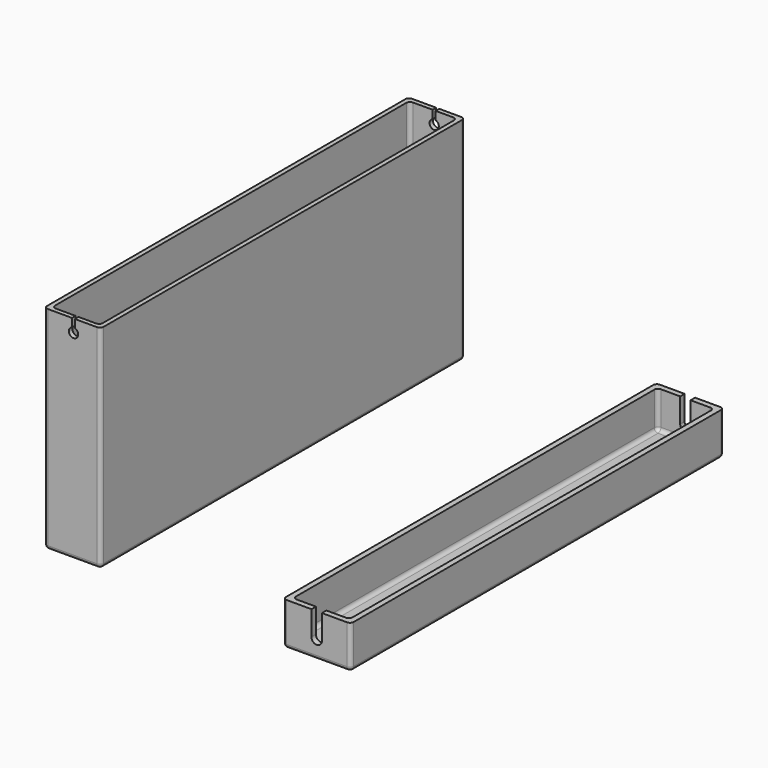
from build123d import *

# Parameters (mm, degrees)
F0_W     = 15.2
F0_H     = 122.4
F0_W_2   = 12.8
F0_H_2   = 120
F1_DEPTH = 1.5
F2_DEPTH = 57
F4_DEPTH = 122.401
F0_W_3   = 18.2
F0_H_3   = 125.4
F5_DEPTH = 1.5
F6_DEPTH = 10
F8_DEPTH = 125.401
F9_R     = 1
F9_2_R   = 1


with BuildPart() as f1:
    # F0 (on Top) → F1 (new body)
    with BuildSketch(Plane.XY):
        with Locations((-40.9856793821, 52.9964423075)):
            Rectangle(F0_W, F0_H)
        with Locations((-40.9856793821, 52.9964423075)):
            Rectangle(F0_W_2, F0_H_2, mode=Mode.SUBTRACT)
        with Locations((-40.9856793821, 52.9964423075)):
            Rectangle(F0_W_2, F0_H_2)
    extrude(amount=F1_DEPTH)

    # F0 (on Top) → F2 (join)
    with BuildSketch(Plane.XY):
        with Locations((-40.9856793821, 52.9964423075)):
            Rectangle(F0_W, F0_H)
        with Locations((-40.9856793821, 52.9964423075)):
            Rectangle(F0_W_2, F0_H_2, mode=Mode.SUBTRACT)
    extrude(amount=F2_DEPTH)

    # F3 (on face) → F4 (cut, through all)
    with BuildSketch(Plane.XZ.offset(8.2035576925)):
        with BuildLine():
            ThreePointArc((-41.0856793821, 54.7842719282), (-41.4145483689, 52.5844951994), (-39.4356793821, 53.6))
            ThreePointArc((-39.4356793821, 53.6), (-39.6701745815, 54.3288689869), (-40.2856793821, 54.7842719282))
            Line((-40.2856793821, 54.7842719282), (-40.2856793821, 53.6))
            Line((-40.2856793821, 53.6), (-41.0856793821, 53.6))
            Line((-41.0856793821, 53.6), (-41.0856793821, 54.7842719282))
        make_face()
        with BuildLine():
            ThreePointArc((-41.0856793821, 54.7842719282), (-40.6856793821, 54.85), (-40.2856793821, 54.7842719282))
            Line((-40.2856793821, 54.7842719282), (-40.2856793821, 57))
            Line((-40.2856793821, 57), (-41.0856793821, 57))
            Line((-41.0856793821, 57), (-41.0856793821, 54.7842719282))
        make_face()
        with BuildLine():
            Line((-40.2856793821, 53.6), (-40.2856793821, 54.7842719282))
            ThreePointArc((-40.2856793821, 54.7842719282), (-40.6856793821, 54.85), (-41.0856793821, 54.7842719282))
            Line((-41.0856793821, 54.7842719282), (-41.0856793821, 53.6))
            Line((-41.0856793821, 53.6), (-40.2856793821, 53.6))
        make_face()
    extrude(amount=-F4_DEPTH, mode=Mode.SUBTRACT)

    # F9
    f9_edges = [f1.edges().sort_by_distance(p)[0] for p in [
        (-33.385679, -8.203558, 28.5),
        (-48.585679, -8.203558, 28.5),
        (-33.385679, 114.196442, 28.5),
        (-47.385679, 112.996442, 29.25),
        (-48.585679, 114.196442, 28.5),
        (-34.585679, -7.003558, 29.25),
        (-47.385679, -7.003558, 29.25),
        (-34.585679, 112.996442, 29.25),
        (-40.985679, -7.003558, 1.5),
        (-40.985679, 112.996442, 1.5),
        (-40.985679, -8.203558, 0),
        (-40.985679, 114.196442, 0),
        (-48.585679, 52.996442, 0),
        (-33.385679, 52.996442, 0),
    ]]
    fillet(f9_edges, radius=F9_R)


with BuildPart() as f5:
    # F0 (on Top) → F5 (new body)
    with BuildSketch(Plane.XY):
        with Locations((25.9395489454, 52.9964423075)):
            Rectangle(F0_W_3, F0_H_3)
        with Locations((25.9395489454, 52.9964423075)):
            Rectangle(F0_W, F0_H, mode=Mode.SUBTRACT)
        with Locations((25.9395489454, 52.9964423075)):
            Rectangle(F0_W, F0_H)
    extrude(amount=-F5_DEPTH)

    # F0 (on Top) → F6 (join)
    with BuildSketch(Plane.XY):
        with Locations((25.9395489454, 52.9964423075)):
            Rectangle(F0_W_3, F0_H_3)
        with Locations((25.9395489454, 52.9964423075)):
            Rectangle(F0_W, F0_H, mode=Mode.SUBTRACT)
    extrude(amount=F6_DEPTH)

    # F7 (on face) → F8 (cut, through all)
    with BuildSketch(Plane.XZ.offset(9.7035576925)):
        with BuildLine():
            ThreePointArc((27.2995661135, 3.4795490896), (25.9018279612, 4.8), (24.5040898089, 3.4795490896))
            Line((24.5040898089, 3.4795490896), (27.2995661135, 3.4795490896))
        make_face()
        with BuildLine():
            Line((27.2995661135, 3.4795490896), (24.5040898089, 3.4795490896))
            ThreePointArc((24.5040898089, 3.4795490896), (25.8620373417, 2.0005655762), (27.3018279612, 3.4))
            ThreePointArc((27.3018279612, 3.4), (27.301262385, 3.4397906195), (27.2995661135, 3.4795490896))
        make_face()
        with BuildLine():
            Line((24.5040898089, 10), (24.5040898089, 3.4795490896))
            ThreePointArc((24.5040898089, 3.4795490896), (25.9018279612, 4.8), (27.2995661135, 3.4795490896))
            Line((27.2995661135, 3.4795490896), (27.3040898089, 3.4795490896))
            Line((27.3040898089, 3.4795490896), (27.3040898089, 10))
            Line((27.3040898089, 10), (24.5040898089, 10))
        make_face()
    extrude(amount=-F8_DEPTH, mode=Mode.SUBTRACT)

    # F9#2
    f9_2_edges = [f5.edges().sort_by_distance(p)[0] for p in [
        (18.339549, 52.996442, 0),
        (25.939549, 114.196442, 0),
        (33.539549, 52.996442, 0),
        (25.939549, -8.203558, 0),
        (25.939549, 115.696442, -1.5),
        (16.839549, 52.996442, -1.5),
        (25.939549, -9.703558, -1.5),
        (35.039549, 52.996442, -1.5),
        (35.039549, -9.703558, 4.25),
        (16.839549, -9.703558, 4.25),
        (35.039549, 115.696442, 4.25),
        (16.839549, 115.696442, 4.25),
        (18.339549, -8.203558, 5),
        (33.539549, -8.203558, 5),
        (18.339549, 114.196442, 5),
        (33.539549, 114.196442, 5),
    ]]
    fillet(f9_2_edges, radius=F9_2_R)


solid = Compound([f1.part, f5.part])
